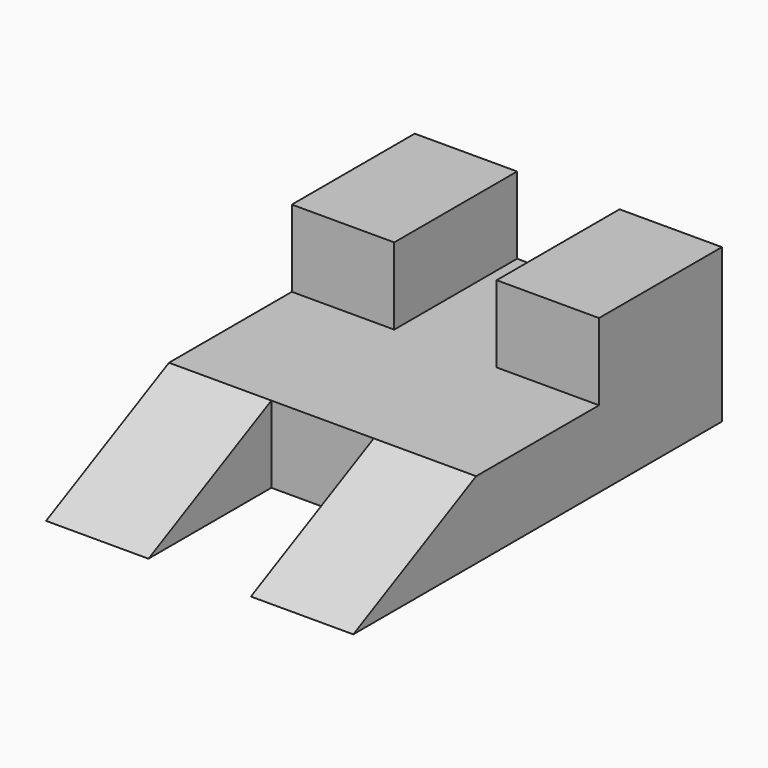
from build123d import *

# Parameters (mm, degrees)
F0_W     = 60
F0_H     = 90
F1_DEPTH = 15
F2_W     = 20
F2_H     = 30
F3_DEPTH = 15
F5_DEPTH = 60
F6_W     = 20
F6_H     = 30
F7_DEPTH = 15


with BuildPart() as f1:
    # F0 (on Top) → F1 (new body)
    with BuildSketch(Plane.XY):
        with Locations((-30, 43.088234)):
            Rectangle(F0_W, F0_H)
    extrude(amount=F1_DEPTH)

    # F2 (on face) → F3 (join)
    with BuildSketch(Plane.XY.offset(15)):
        with Locations((-50, 73.088234)):
            Rectangle(F2_W, F2_H)
        with Locations((-10, 73.088234)):
            Rectangle(F2_W, F2_H)
    extrude(amount=F3_DEPTH)

    # F4 (on face) → F5 (cut)
    with BuildSketch(Plane.YZ):
        Polygon((-1.911766, 15), (-1.911766, 0), (28.088234, 15), align=None)
    extrude(amount=-F5_DEPTH, mode=Mode.SUBTRACT)

    # F6 (on face) → F7 (cut)
    with BuildSketch(Plane(origin=(0, 0, 0), x_dir=(1, 0, 0), z_dir=(0, 0, -1))):
        with Locations((-30, -13.088234)):
            Rectangle(F6_W, F6_H)
    extrude(amount=-F7_DEPTH, mode=Mode.SUBTRACT)


solid = f1.part
